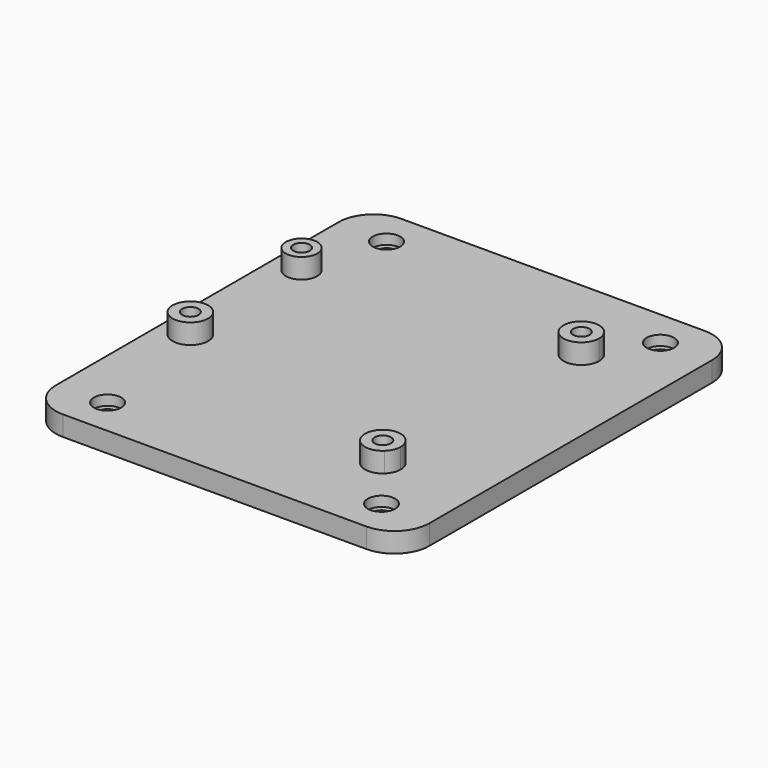
from build123d import *

# Parameters (mm, degrees)
F0_R     = 3.5770918181
F0_R_2   = 3.15
F0_R_3   = 2.75
F0_R_4   = 1.65
F1_DEPTH = 4
F2_DEPTH = 4
F3_DEPTH = 2
F4_R     = 1.65
F5_DEPTH = 2
F6_R     = 7


with BuildPart() as f1:
    # F0 (on Top) → F1 (new body)
    with BuildSketch(Plane.XY):
        with BuildLine():
            Line((17.7415657376, 26.65), (-37.5, 26.65))
            Line((-37.5, 26.65), (-37.5, -26.65))
            Line((-37.5, -26.65), (-34.3, -26.65))
            Line((-34.3, -26.65), (16.5432570596, -26.65))
            ThreePointArc((16.5432570596, -26.65), (17.5844451964, -20.7649139321), (22.5770918181, -24.05))
            ThreePointArc((22.5770918181, -24.05), (22.2850860679, -25.4655548036), (21.4567429404, -26.65))
            Line((21.4567429404, -26.65), (34.3, -26.65))
            Line((34.3, -26.65), (37.5, -26.65))
            Line((37.5, -26.65), (37.5, 26.65))
            Line((37.5, 26.65), (22.8584342624, 26.65))
            ThreePointArc((22.8584342624, 26.65), (23.6126530261, 25.4997836137), (23.8770918181, 24.15))
            ThreePointArc((23.8770918181, 24.15), (18.9502163863, 20.8373469739), (17.7415657376, 26.65))
        make_face()
        with Locations((-31.8, -8.85)):
            Circle(F0_R, mode=Mode.SUBTRACT)
        with Locations((-31.8, 19.05)):
            Circle(F0_R_2, mode=Mode.SUBTRACT)
        with BuildLine():
            Line((17.7415657376, 26.65), (-37.5, 26.65))
            Line((-37.5, 26.65), (-37.5, -26.65))
            Line((-37.5, -26.65), (-34.3, -26.65))
            Line((-34.3, -26.65), (16.5432570596, -26.65))
            ThreePointArc((16.5432570596, -26.65), (17.5844451964, -20.7649139321), (22.5770918181, -24.05))
            ThreePointArc((22.5770918181, -24.05), (22.2850860679, -25.4655548036), (21.4567429404, -26.65))
            Line((21.4567429404, -26.65), (34.3, -26.65))
            Line((34.3, -26.65), (37.5, -26.65))
            Line((37.5, -26.65), (37.5, 26.65))
            Line((37.5, 26.65), (22.8584342624, 26.65))
            ThreePointArc((22.8584342624, 26.65), (23.6126530261, 25.4997836137), (23.8770918181, 24.15))
            ThreePointArc((23.8770918181, 24.15), (18.9502163863, 20.8373469739), (17.7415657376, 26.65))
        make_face()
        with Locations((-31.8, -8.85)):
            Circle(F0_R, mode=Mode.SUBTRACT)
        with Locations((-31.8, 19.05)):
            Circle(F0_R_2, mode=Mode.SUBTRACT)
        with BuildLine():
            Line((17.7415657376, 26.65), (-37.5, 26.65))
            Line((-37.5, 26.65), (-37.5, -26.65))
            Line((-37.5, -26.65), (-34.3, -26.65))
            Line((-34.3, -26.65), (16.5432570596, -26.65))
            ThreePointArc((16.5432570596, -26.65), (17.5844451964, -20.7649139321), (22.5770918181, -24.05))
            ThreePointArc((22.5770918181, -24.05), (22.2850860679, -25.4655548036), (21.4567429404, -26.65))
            Line((21.4567429404, -26.65), (34.3, -26.65))
            Line((34.3, -26.65), (37.5, -26.65))
            Line((37.5, -26.65), (37.5, 26.65))
            Line((37.5, 26.65), (22.8584342624, 26.65))
            ThreePointArc((22.8584342624, 26.65), (23.6126530261, 25.4997836137), (23.8770918181, 24.15))
            ThreePointArc((23.8770918181, 24.15), (18.9502163863, 20.8373469739), (17.7415657376, 26.65))
        make_face()
        with Locations((-31.8, -8.85)):
            Circle(F0_R, mode=Mode.SUBTRACT)
        with Locations((-31.8, 19.05)):
            Circle(F0_R_2, mode=Mode.SUBTRACT)
        with BuildLine():
            Line((-34.3, -26.65), (-37.5, -26.65))
            Line((-37.5, -26.65), (-37.5, -42.5))
            Line((-37.5, -42.5), (37.5, -42.5))
            Line((37.5, -42.5), (37.5, -26.65))
            Line((37.5, -26.65), (34.3, -26.65))
            Line((34.3, -26.65), (21.4567429404, -26.65))
            ThreePointArc((21.4567429404, -26.65), (19, -27.6270918181), (16.5432570596, -26.65))
            Line((16.5432570596, -26.65), (-34.3, -26.65))
        make_face()
        with Locations((-27.5, -35)):
            Circle(F0_R_3, mode=Mode.SUBTRACT)
        with Locations((27.5, -35)):
            Circle(F0_R_3, mode=Mode.SUBTRACT)
        with BuildLine():
            Line((37.5, 42.5), (-37.5, 42.5))
            Line((-37.5, 42.5), (-37.5, 26.65))
            Line((-37.5, 26.65), (17.7415657376, 26.65))
            ThreePointArc((17.7415657376, 26.65), (20.3, 27.7270918181), (22.8584342624, 26.65))
            Line((22.8584342624, 26.65), (37.5, 26.65))
            Line((37.5, 26.65), (37.5, 42.5))
        make_face()
        with Locations((-27.5, 35)):
            Circle(F0_R_3, mode=Mode.SUBTRACT)
        with Locations((27.5, 35)):
            Circle(F0_R_3, mode=Mode.SUBTRACT)
        with Locations((-31.8, -8.85)):
            Circle(F0_R)
        with Locations((-31.8, -8.85)):
            Circle(F0_R_4, mode=Mode.SUBTRACT)
        with Locations((-31.8, -8.85)):
            Circle(F0_R)
        with Locations((-31.8, -8.85)):
            Circle(F0_R_4, mode=Mode.SUBTRACT)
        with BuildLine():
            ThreePointArc((22.5770918181, -24.05), (17.5844451964, -20.7649139321), (16.5432570596, -26.65))
            Line((16.5432570596, -26.65), (21.4567429404, -26.65))
            ThreePointArc((21.4567429404, -26.65), (22.2850860679, -25.4655548036), (22.5770918181, -24.05))
        make_face()
        with Locations((19, -24.05)):
            Circle(F0_R_4, mode=Mode.SUBTRACT)
        with BuildLine():
            Line((22.8584342624, 26.65), (17.7415657376, 26.65))
            ThreePointArc((17.7415657376, 26.65), (18.9502163863, 20.8373469739), (23.8770918181, 24.15))
            ThreePointArc((23.8770918181, 24.15), (23.6126530261, 25.4997836137), (22.8584342624, 26.65))
        make_face()
        with Locations((20.3, 24.15)):
            Circle(F0_R_4, mode=Mode.SUBTRACT)
        with Locations((-31.8, 19.05)):
            Circle(F0_R_2)
        with Locations((-31.8, 19.05)):
            Circle(F0_R_4, mode=Mode.SUBTRACT)
        with Locations((-31.8, 19.05)):
            Circle(F0_R_2)
        with Locations((-31.8, 19.05)):
            Circle(F0_R_4, mode=Mode.SUBTRACT)
        with Locations((-27.5, 35)):
            Circle(F0_R_3)
        with Locations((-27.5, 35)):
            Circle(F0_R_4, mode=Mode.SUBTRACT)
        with Locations((27.5, 35)):
            Circle(F0_R_3)
        with Locations((27.5, 35)):
            Circle(F0_R_4, mode=Mode.SUBTRACT)
        with Locations((-27.5, -35)):
            Circle(F0_R_3)
        with Locations((-27.5, -35)):
            Circle(F0_R_4, mode=Mode.SUBTRACT)
        with Locations((27.5, -35)):
            Circle(F0_R_3)
        with Locations((27.5, -35)):
            Circle(F0_R_4, mode=Mode.SUBTRACT)
        with BuildLine():
            ThreePointArc((22.8584342624, 26.65), (20.3, 27.7270918181), (17.7415657376, 26.65))
            Line((17.7415657376, 26.65), (22.8584342624, 26.65))
        make_face()
        with BuildLine():
            ThreePointArc((22.8584342624, 26.65), (20.3, 27.7270918181), (17.7415657376, 26.65))
            Line((17.7415657376, 26.65), (22.8584342624, 26.65))
        make_face()
        with BuildLine():
            Line((21.4567429404, -26.65), (16.5432570596, -26.65))
            ThreePointArc((16.5432570596, -26.65), (19, -27.6270918181), (21.4567429404, -26.65))
        make_face()
    extrude(amount=-F1_DEPTH)

    # F0 (on Top) → F2 (join)
    with BuildSketch(Plane.XY):
        with Locations((-31.8, 19.05)):
            Circle(F0_R_2)
        with Locations((-31.8, 19.05)):
            Circle(F0_R_4, mode=Mode.SUBTRACT)
        with Locations((-31.8, -8.85)):
            Circle(F0_R)
        with Locations((-31.8, -8.85)):
            Circle(F0_R_4, mode=Mode.SUBTRACT)
        with BuildLine():
            Line((22.8584342624, 26.65), (17.7415657376, 26.65))
            ThreePointArc((17.7415657376, 26.65), (18.9502163863, 20.8373469739), (23.8770918181, 24.15))
            ThreePointArc((23.8770918181, 24.15), (23.6126530261, 25.4997836137), (22.8584342624, 26.65))
        make_face()
        with Locations((20.3, 24.15)):
            Circle(F0_R_4, mode=Mode.SUBTRACT)
        with BuildLine():
            ThreePointArc((22.8584342624, 26.65), (20.3, 27.7270918181), (17.7415657376, 26.65))
            Line((17.7415657376, 26.65), (22.8584342624, 26.65))
        make_face()
        with BuildLine():
            ThreePointArc((22.5770918181, -24.05), (17.5844451964, -20.7649139321), (16.5432570596, -26.65))
            Line((16.5432570596, -26.65), (21.4567429404, -26.65))
            ThreePointArc((21.4567429404, -26.65), (22.2850860679, -25.4655548036), (22.5770918181, -24.05))
        make_face()
        with Locations((19, -24.05)):
            Circle(F0_R_4, mode=Mode.SUBTRACT)
        with BuildLine():
            Line((21.4567429404, -26.65), (16.5432570596, -26.65))
            ThreePointArc((16.5432570596, -26.65), (19, -27.6270918181), (21.4567429404, -26.65))
        make_face()
    extrude(amount=F2_DEPTH)

    # F0 (on Top) → F3 (cut)
    with BuildSketch(Plane.XY):
        with Locations((-27.5, 35)):
            Circle(F0_R_3)
        with Locations((-27.5, 35)):
            Circle(F0_R_4, mode=Mode.SUBTRACT)
        with Locations((27.5, 35)):
            Circle(F0_R_3)
        with Locations((27.5, 35)):
            Circle(F0_R_4, mode=Mode.SUBTRACT)
        with Locations((-27.5, -35)):
            Circle(F0_R_3)
        with Locations((-27.5, -35)):
            Circle(F0_R_4, mode=Mode.SUBTRACT)
        with Locations((27.5, -35)):
            Circle(F0_R_3)
        with Locations((27.5, -35)):
            Circle(F0_R_4, mode=Mode.SUBTRACT)
    extrude(amount=-F3_DEPTH, mode=Mode.SUBTRACT)

    # F4 (on face) → F5 (cut)
    with BuildSketch(Plane(origin=(0, 0, -4), x_dir=(1, 0, 0), z_dir=(0, 0, -1))):
        Polygon((18.6256842194, -27.05), (21.9743157806, -27.05), (23.6486315613, -24.15), (21.9743157806, -21.25), (18.6256842194, -21.25), (16.9513684387, -24.15), align=None)
        with Locations((20.3, -24.15)):
            Circle(F4_R, mode=Mode.SUBTRACT)
        Polygon((-33.4743157806, -21.95), (-30.1256842194, -21.95), (-28.4513684387, -19.05), (-30.1256842194, -16.15), (-33.4743157806, -16.15), (-35.1486315613, -19.05), align=None)
        with Locations((-31.8, -19.05)):
            Circle(F4_R, mode=Mode.SUBTRACT)
        Polygon((17.3256842194, 21.15), (20.6743157806, 21.15), (22.3486315613, 24.05), (20.6743157806, 26.95), (17.3256842194, 26.95), (15.6513684387, 24.05), align=None)
        with Locations((19, 24.05)):
            Circle(F4_R, mode=Mode.SUBTRACT)
        Polygon((-33.4743157806, 5.95), (-30.1256842194, 5.95), (-28.4513684387, 8.85), (-30.1256842194, 11.75), (-33.4743157806, 11.75), (-35.1486315613, 8.85), align=None)
        with Locations((-31.8, 8.85)):
            Circle(F4_R, mode=Mode.SUBTRACT)
    extrude(amount=-F5_DEPTH, mode=Mode.SUBTRACT)

    # F6
    f6_edges = [f1.edges().sort_by_distance(p)[0] for p in [
        (-37.5, 42.5, -2),
        (-37.5, -42.5, -2),
        (37.5, -42.5, -2),
        (37.5, 42.5, -2),
    ]]
    fillet(f6_edges, radius=F6_R)


solid = f1.part
